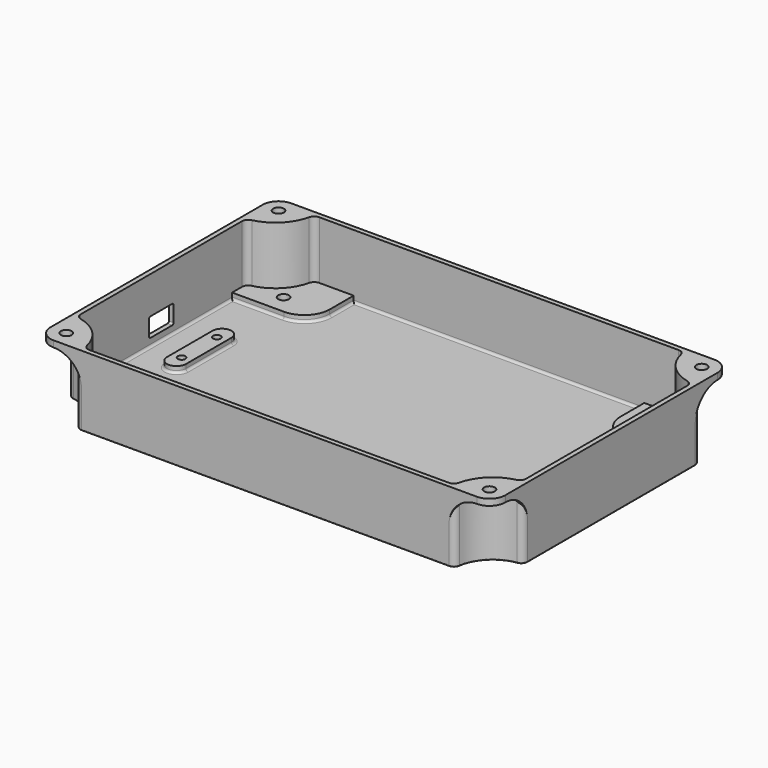
from build123d import *

# Parameters (mm, degrees)
PAD_DEPTH       = 2
PAD001_DEPTH    = 18.3
PAD002_DEPTH    = 2
PAD003_DEPTH    = 2
PAD004_DEPTH    = 2
SKETCH005_R     = 1.7
SKETCH005_R_2   = 1.2
POCKET_DEPTH    = 22.301
SKETCH006_R     = 3.5
SKETCH006_R_2   = 2.5
POCKET001_DEPTH = 2
SKETCH009_R     = 1.7
POCKET002_DEPTH = 22.301
POCKET003_DEPTH = 1.5
FILLET_R        = 0.75
FILLET001_R     = 0.3
PAD005_DEPTH    = 1.5
PAD006_DEPTH    = 1.5
PAD007_DEPTH    = 1.5
PAD008_DEPTH    = 1.5


with BuildPart() as part:
    # Sketch → Pad (new body)
    with BuildSketch(Plane.XY):
        with BuildLine():
            Line((-58.1435935394, 47), (58.1435935394, 47))
            ThreePointArc((60.1230801767, 45.2857142857), (59.4529008809, 46.511857892), (58.1435935394, 47))
            ThreePointArc((60.1230801767, 45.2857142857), (63.5147186258, 38.5147186258), (70.2857142857, 35.1230801767))
            ThreePointArc((72, 33.1435935394), (71.511857892, 34.4529008809), (70.2857142857, 35.1230801767))
            Line((72, 33.1435935394), (72, -33.1435935394))
            ThreePointArc((70.2857142857, -35.1230801767), (71.511857892, -34.4529008809), (72, -33.1435935394))
            ThreePointArc((70.2857142857, -35.1230801767), (63.5147186258, -38.5147186258), (60.1230801767, -45.2857142857))
            ThreePointArc((58.1435935394, -47), (59.4529008809, -46.511857892), (60.1230801767, -45.2857142857))
            Line((58.1435935394, -47), (-58.1435935394, -47))
            ThreePointArc((-60.1230801767, -45.2857142857), (-59.4529008809, -46.511857892), (-58.1435935394, -47))
            ThreePointArc((-60.1230801767, -45.2857142857), (-63.5147186258, -38.5147186258), (-70.2857142857, -35.1230801767))
            ThreePointArc((-72, -33.1435935394), (-71.511857892, -34.4529008809), (-70.2857142857, -35.1230801767))
            Line((-72, -33.1435935394), (-72, 33.1435935394))
            ThreePointArc((-70.2857142857, 35.1230801767), (-71.511857892, 34.4529008809), (-72, 33.1435935394))
            ThreePointArc((-70.2857142857, 35.1230801767), (-63.5147186258, 38.5147186258), (-60.1230801767, 45.2857142857))
            ThreePointArc((-58.1435935394, 47), (-59.4529008809, 46.511857892), (-60.1230801767, 45.2857142857))
        make_face()
    extrude(amount=PAD_DEPTH)

    # Sketch001 (on Face18 of Pad) → Pad001 (join)
    with BuildSketch(Plane.XY.offset(2)):
        with BuildLine():
            Line((-58.1435935394, 47), (58.1435935394, 47))
            ThreePointArc((60.1230801767, 45.2857142857), (59.4529008809, 46.511857892), (58.1435935394, 47))
            ThreePointArc((60.1230801767, 45.2857142857), (63.5147186258, 38.5147186258), (70.2857142857, 35.1230801767))
            ThreePointArc((72, 33.1435935394), (71.511857892, 34.4529008809), (70.2857142857, 35.1230801767))
            Line((72, 33.1435935394), (72, -33.1435935394))
            ThreePointArc((70.2857142857, -35.1230801767), (71.511857892, -34.4529008809), (72, -33.1435935394))
            ThreePointArc((70.2857142857, -35.1230801767), (63.5147186258, -38.5147186258), (60.1230801767, -45.2857142857))
            ThreePointArc((58.1435935394, -47), (59.4529008809, -46.511857892), (60.1230801767, -45.2857142857))
            Line((58.1435935394, -47), (-58.1435935394, -47))
            ThreePointArc((-60.1230801767, -45.2857142857), (-59.4529008809, -46.511857892), (-58.1435935394, -47))
            ThreePointArc((-60.1230801767, -45.2857142857), (-63.5147186258, -38.5147186258), (-70.2857142857, -35.1230801767))
            ThreePointArc((-72, -33.1435935394), (-71.511857892, -34.4529008809), (-70.2857142857, -35.1230801767))
            Line((-72, -33.1435935394), (-72, 33.1435935394))
            ThreePointArc((-70.2857142857, 35.1230801767), (-71.511857892, 34.4529008809), (-72, 33.1435935394))
            ThreePointArc((-70.2857142857, 35.1230801767), (-63.5147186258, 38.5147186258), (-60.1230801767, 45.2857142857))
            ThreePointArc((-58.1435935394, 47), (-59.4529008809, 46.511857892), (-60.1230801767, 45.2857142857))
        make_face()
        with BuildLine():
            ThreePointArc((-68.9516129032, 33.8486754999), (-62.454058454, 37.454058454), (-58.8486754999, 43.9516129032))
            ThreePointArc((-56.9003311295, 45.5), (-58.1446731631, 45.0657627225), (-58.8486754999, 43.9516129032))
            Line((-56.9003311295, 45.5), (56.9003311295, 45.5))
            ThreePointArc((58.8486754999, 43.9516129032), (58.1446731631, 45.0657627225), (56.9003311295, 45.5))
            ThreePointArc((58.8486754999, 43.9516129032), (62.454058454, 37.454058454), (68.9516129032, 33.8486754999))
            ThreePointArc((70.5, 31.9003311295), (70.0657627225, 33.1446731631), (68.9516129032, 33.8486754999))
            Line((70.5, 31.9003311295), (70.5, -31.9003311295))
            ThreePointArc((68.9516129032, -33.8486754999), (70.0657627225, -33.1446731631), (70.5, -31.9003311295))
            ThreePointArc((68.9516129032, -33.8486754999), (62.454058454, -37.454058454), (58.8486754999, -43.9516129032))
            ThreePointArc((56.9003311295, -45.5), (58.1446731631, -45.0657627225), (58.8486754999, -43.9516129032))
            Line((56.9003311295, -45.5), (-56.9003311295, -45.5))
            ThreePointArc((-58.8486754999, -43.9516129032), (-58.1446731631, -45.0657627225), (-56.9003311295, -45.5))
            ThreePointArc((-58.8486754999, -43.9516129032), (-62.454058454, -37.454058454), (-68.9516129032, -33.8486754999))
            ThreePointArc((-70.5, -31.9003311295), (-70.0657627225, -33.1446731631), (-68.9516129032, -33.8486754999))
            Line((-70.5, -31.9003311295), (-70.5, 31.9003311295))
            ThreePointArc((-68.9516129032, 33.8486754999), (-70.0657627225, 33.1446731631), (-70.5, 31.9003311295))
        make_face(mode=Mode.SUBTRACT)
    extrude(amount=PAD001_DEPTH)

    # Sketch002 (on Face51 of Pad001) → Pad002 (join)
    with BuildSketch(Plane.XY.offset(2)):
        with BuildLine():
            Line((-46, 45.5), (-46, 36))
            ThreePointArc((-54, 28), (-48.3431457505, 30.3431457505), (-46, 36))
            Line((-54, 28), (-70.5, 28))
            Line((-70.5, 31.9003311295), (-70.5, 28))
            ThreePointArc((-68.9516129032, 33.8486754999), (-70.0657627225, 33.1446731631), (-70.5, 31.9003311295))
            ThreePointArc((-68.9516129032, 33.8486754999), (-62.454058454, 37.454058454), (-58.8486754999, 43.9516129032))
            ThreePointArc((-56.9003311295, 45.5), (-58.1446731631, 45.0657627225), (-58.8486754999, 43.9516129032))
            Line((-56.9003311295, 45.5), (-46, 45.5))
        make_face()
        with BuildLine():
            Line((56.9003311295, 45.5), (46, 45.5))
            Line((46, 45.5), (46, 36))
            ThreePointArc((46, 36), (48.3431457505, 30.3431457505), (54, 28))
            Line((54, 28), (70.5, 28))
            Line((70.5, 31.9003311295), (70.5, 28))
            ThreePointArc((70.5, 31.9003311295), (70.0657627225, 33.1446731631), (68.9516129032, 33.8486754999))
            ThreePointArc((58.8486754999, 43.9516129032), (62.454058454, 37.454058454), (68.9516129032, 33.8486754999))
            ThreePointArc((58.8486754999, 43.9516129032), (58.1446731631, 45.0657627225), (56.9003311295, 45.5))
        make_face()
        with BuildLine():
            ThreePointArc((-58.8486754999, -43.9516129032), (-62.454058454, -37.454058454), (-68.9516129032, -33.8486754999))
            ThreePointArc((-70.5, -31.9003311295), (-70.0657627225, -33.1446731631), (-68.9516129032, -33.8486754999))
            Line((-70.5, -28), (-70.5, -31.9003311295))
            Line((-54, -28), (-70.5, -28))
            ThreePointArc((-46, -36), (-48.3431457505, -30.3431457505), (-54, -28))
            Line((-46, -45.5), (-46, -36))
            Line((-46, -45.5), (-56.9003311295, -45.5))
            ThreePointArc((-58.8486754999, -43.9516129032), (-58.1446731631, -45.0657627225), (-56.9003311295, -45.5))
        make_face()
        with BuildLine():
            Line((70.5, -28), (54, -28))
            ThreePointArc((54, -28), (48.3431457505, -30.3431457505), (46, -36))
            Line((46, -45.5), (46, -36))
            Line((56.9003311295, -45.5), (46, -45.5))
            ThreePointArc((56.9003311295, -45.5), (58.1446731631, -45.0657627225), (58.8486754999, -43.9516129032))
            ThreePointArc((68.9516129032, -33.8486754999), (62.454058454, -37.454058454), (58.8486754999, -43.9516129032))
            ThreePointArc((68.9516129032, -33.8486754999), (70.0657627225, -33.1446731631), (70.5, -31.9003311295))
            Line((70.5, -31.9003311295), (70.5, -28))
        make_face()
    extrude(amount=PAD002_DEPTH)

    # Sketch003 (on Face21 of Pad002) → Pad003 (join)
    with BuildSketch(Plane.XY.offset(20.3)):
        with BuildLine():
            Line((-67, 47), (67, 47))
            ThreePointArc((72, 42), (70.5355339059, 45.5355339059), (67, 47))
            Line((72, -42), (72, 42))
            ThreePointArc((67, -47), (70.5355339059, -45.5355339059), (72, -42))
            Line((-67, -47), (67, -47))
            ThreePointArc((-72, -42), (-70.5355339059, -45.5355339059), (-67, -47))
            Line((-72, -42), (-72, 42))
            ThreePointArc((-67, 47), (-70.5355339059, 45.5355339059), (-72, 42))
        make_face()
        with BuildLine():
            Line((56.9003311295, 45.5), (-56.9003311295, 45.5))
            ThreePointArc((-56.9003311295, 45.5), (-58.1446731631, 45.0657627225), (-58.8486754999, 43.9516129032))
            ThreePointArc((-68.9516129032, 33.8486754999), (-62.454058454, 37.454058454), (-58.8486754999, 43.9516129032))
            ThreePointArc((-68.9516129032, 33.8486754999), (-70.0657627225, 33.1446731631), (-70.5, 31.9003311295))
            Line((-70.5, -31.9003311295), (-70.5, 31.9003311295))
            ThreePointArc((-70.5, -31.9003311295), (-70.0657627225, -33.1446731631), (-68.9516129032, -33.8486754999))
            ThreePointArc((-58.8486754999, -43.9516129032), (-62.454058454, -37.454058454), (-68.9516129032, -33.8486754999))
            ThreePointArc((-58.8486754999, -43.9516129032), (-58.1446731631, -45.0657627225), (-56.9003311295, -45.5))
            Line((-56.9003311295, -45.5), (56.9003311295, -45.5))
            ThreePointArc((56.9003311295, -45.5), (58.1446731631, -45.0657627225), (58.8486754999, -43.9516129032))
            ThreePointArc((68.9516129032, -33.8486754999), (62.454058454, -37.454058454), (58.8486754999, -43.9516129032))
            ThreePointArc((68.9516129032, -33.8486754999), (70.0657627225, -33.1446731631), (70.5, -31.9003311295))
            Line((70.5, 31.9003311295), (70.5, -31.9003311295))
            ThreePointArc((70.5, 31.9003311295), (70.0657627225, 33.1446731631), (68.9516129032, 33.8486754999))
            ThreePointArc((58.8486754999, 43.9516129032), (62.454058454, 37.454058454), (68.9516129032, 33.8486754999))
            ThreePointArc((58.8486754999, 43.9516129032), (58.1446731631, 45.0657627225), (56.9003311295, 45.5))
        make_face(mode=Mode.SUBTRACT)
    extrude(amount=PAD003_DEPTH)

    # Sketch007 (on Face54 of Pad002) → Pad004 (join)
    with BuildSketch(Plane.XY.offset(2)):
        with BuildLine():
            Line((-55.5, 9), (-55.5, -9))
            ThreePointArc((-61.5, -9), (-58.5, -12), (-55.5, -9))
            Line((-61.5, -9), (-61.5, 9))
            ThreePointArc((-55.5, 9), (-58.5, 12), (-61.5, 9))
        make_face()
    extrude(amount=PAD004_DEPTH)

    # Sketch005 (on Face4 of Pad004) → Pocket (cut, through all)
    with BuildSketch(Plane(origin=(0, 0, 0), x_dir=(1, 0, 0), z_dir=(0, 0, -1))):
        with Locations((-59, 34)):
            Circle(SKETCH005_R)
        with Locations((-59, -34)):
            Circle(SKETCH005_R)
        with Locations((52, 34)):
            Circle(SKETCH005_R)
        with Locations((52, -34)):
            Circle(SKETCH005_R)
        with Locations((-58.5, 7)):
            Circle(SKETCH005_R_2)
        with Locations((-58.5, -7)):
            Circle(SKETCH005_R_2)
    extrude(amount=-POCKET_DEPTH, mode=Mode.SUBTRACT)

    # Sketch006 (on Face4 of Pocket) → Pocket001 (cut)
    with BuildSketch(Plane(origin=(0, 0, 0), x_dir=(1, 0, 0), z_dir=(0, 0, -1))):
        with Locations((-59, 34)):
            Circle(SKETCH006_R)
        with Locations((52, 34)):
            Circle(SKETCH006_R)
        with Locations((52, -34)):
            Circle(SKETCH006_R)
        with Locations((-59, -34)):
            Circle(SKETCH006_R)
        with Locations((-58.5, 7)):
            Circle(SKETCH006_R_2)
        with Locations((-58.5, -7)):
            Circle(SKETCH006_R_2)
    extrude(amount=-POCKET001_DEPTH, mode=Mode.SUBTRACT)

    # Sketch009 (on Face62 of Pocket001) → Pocket002 (cut, through all)
    with BuildSketch(Plane.XY.offset(22.3)):
        with Locations((-67, 42)):
            Circle(SKETCH009_R)
        with Locations((67, 42)):
            Circle(SKETCH009_R)
        with Locations((67, -42)):
            Circle(SKETCH009_R)
        with Locations((-67, -42)):
            Circle(SKETCH009_R)
    extrude(amount=-POCKET002_DEPTH, mode=Mode.SUBTRACT)

    # Sketch010 (on Face28 of Pocket002) → Pocket003 (cut)
    with BuildSketch(Plane(origin=(-72, 0, 0), x_dir=(0, -1, 0), z_dir=(-1, 0, 0))):
        with BuildLine():
            Line((-4.35, 10.5), (4.35, 10.5))
            ThreePointArc((4.85, 10), (4.7035533906, 10.3535533906), (4.35, 10.5))
            Line((4.85, 10), (4.85, 5))
            ThreePointArc((4.35, 4.5), (4.7035533906, 4.6464466094), (4.85, 5))
            Line((4.35, 4.5), (-4.35, 4.5))
            ThreePointArc((-4.85, 5), (-4.7035533906, 4.6464466094), (-4.35, 4.5))
            Line((-4.85, 5), (-4.85, 10))
            ThreePointArc((-4.35, 10.5), (-4.7035533906, 10.3535533906), (-4.85, 10))
        make_face()
    extrude(amount=-POCKET003_DEPTH, mode=Mode.SUBTRACT)

    # Fillet
    fillet_edges = [part.edges().sort_by_distance(p)[0] for p in [
        (-70.5, 0, 2),
        (-62.25, -28, 2),
        (-62.25, 28, 2),
        (-48.343146, -30.343146, 2),
        (-48.343146, 30.343146, 2),
        (-46, -40.75, 2),
        (-46, 40.75, 2),
        (0, -45.5, 2),
        (0, 45.5, 2),
        (46, -40.75, 2),
        (46, 40.75, 2),
        (48.343146, -30.343146, 2),
        (48.343146, 30.343146, 2),
        (62.25, -28, 2),
        (62.25, 28, 2),
        (70.5, 0, 2),
        (-55.5, 0, 2),
        (-58.5, -12, 2),
        (-61.5, 0, 2),
        (-58.5, 12, 2),
    ]]
    fillet(fillet_edges, radius=FILLET_R)

    # Fillet001
    fillet001_edges = [part.edges().sort_by_distance(p)[0] for p in [
        (-63.514719, 38.514719, 0),
        (-71.511858, 34.452901, 0),
        (-59.452901, 46.511858, 0),
        (-72, 0, 0),
        (0, 47, 0),
        (-71.511858, -34.452901, 0),
        (59.452901, 46.511858, 0),
        (-63.514719, -38.514719, 0),
        (63.514719, 38.514719, 0),
        (-59.452901, -46.511858, 0),
        (71.511858, 34.452901, 0),
        (0, -47, 0),
        (72, 0, 0),
        (59.452901, -46.511858, 0),
        (71.511858, -34.452901, 0),
        (63.514719, -38.514719, 0),
        (48.5, -34, 0),
        (-62.5, -34, 0),
        (-61, -7, 0),
        (48.5, 34, 0),
        (-61, 7, 0),
        (-62.5, 34, 0),
    ]]
    fillet(fillet001_edges, radius=FILLET001_R)

    # Sketch011 (on Face59 of Fillet001) → Pad005 (join)
    with BuildSketch(Plane.YZ.offset(72)):
        with BuildLine():
            Line((-42, 20.3), (-33.1435935394, 20.3))
            Line((-33.1435935394, 20.3), (-33.1435935394, 11.4435935394))
            ThreePointArc((-33.1435935394, 11.4435935394), (-35.7375749348, 17.7060186046), (-42, 20.3))
        make_face()
        with BuildLine():
            Line((42, 20.3), (33.1435935394, 20.3))
            Line((33.1435935394, 20.3), (33.1435935394, 11.4435935394))
            ThreePointArc((42, 20.3), (35.7375749348, 17.7060186046), (33.1435935394, 11.4435935394))
        make_face()
    extrude(amount=-PAD005_DEPTH)

    # Sketch012 (on Face4 of Pad005) → Pad006 (join)
    with BuildSketch(Plane(origin=(-72, 0, 0), x_dir=(0, -1, 0), z_dir=(-1, 0, 0))):
        with BuildLine():
            Line((-42, 20.3), (-33.1435935394, 20.3))
            Line((-33.1435935394, 20.3), (-33.1435935394, 11.4435935394))
            ThreePointArc((-33.1435935394, 11.4435935394), (-35.7375749348, 17.7060186046), (-42, 20.3))
        make_face()
        with BuildLine():
            Line((42, 20.3), (33.1435935394, 20.3))
            Line((33.1435935394, 20.3), (33.1435935394, 11.4435935394))
            ThreePointArc((42, 20.3), (35.7375749348, 17.7060186046), (33.1435935394, 11.4435935394))
        make_face()
    extrude(amount=-PAD006_DEPTH)

    # Sketch013 (on Face106 of Pad006) → Pad007 (join)
    with BuildSketch(Plane.XZ.offset(47)):
        with BuildLine():
            Line((-67, 20.3), (-58.1435935394, 20.3))
            Line((-58.1435935394, 20.3), (-58.1435935394, 11.4435935394))
            ThreePointArc((-58.1435935394, 11.4435935394), (-60.7375749348, 17.7060186046), (-67, 20.3))
        make_face()
        with BuildLine():
            Line((67, 20.3), (58.1435935394, 20.3))
            Line((58.1435935394, 20.3), (58.1435935394, 11.4435935394))
            ThreePointArc((67, 20.3), (60.7375749348, 17.7060186046), (58.1435935394, 11.4435935394))
        make_face()
    extrude(amount=-PAD007_DEPTH)

    # Sketch014 (on Face110 of Pad007) → Pad008 (join)
    with BuildSketch(Plane(origin=(0, 47, 0), x_dir=(-1, 0, 0), z_dir=(0, 1, 0))):
        with BuildLine():
            Line((-67, 20.3), (-58.1435935394, 20.3))
            Line((-58.1435935394, 20.3), (-58.1435935394, 11.4435935394))
            ThreePointArc((-58.1435935394, 11.4435935394), (-60.7375749348, 17.7060186046), (-67, 20.3))
        make_face()
        with BuildLine():
            Line((67, 20.3), (58.1435935394, 20.3))
            Line((58.1435935394, 20.3), (58.1435935394, 11.4435935394))
            ThreePointArc((67, 20.3), (60.7375749348, 17.7060186046), (58.1435935394, 11.4435935394))
        make_face()
    extrude(amount=-PAD008_DEPTH)


solid = part.part
